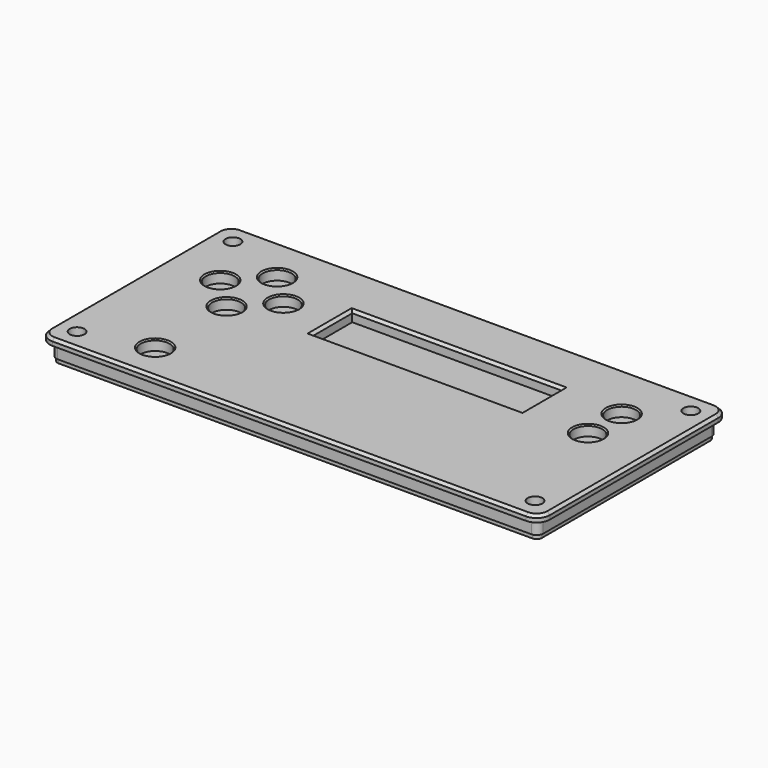
from build123d import *

# Parameters (mm, degrees)
F0_W      = 190
F0_H      = 90
F0_R      = 1.75
F0_R_2    = 5.5
F0_W_2    = 79.652223
F0_H_2    = 18.950621
F1_DEPTH  = 8
F2_R      = 5
F4_DEPTH  = 4
F5_SIZE   = 0.5
F6_SIZE   = 1
F7_R      = 2
F8_R      = 2.8
F9_DEPTH  = 3
F11_DEPTH = 5.5
F12_R     = 1.75
F13_DEPTH = 1.6


with BuildPart() as f1:
    # F0 (on Top) → F1 (new body)
    with BuildSketch(Plane.XY):
        Rectangle(F0_W, F0_H)
        with Locations((-87, -37)):
            Circle(F0_R, mode=Mode.SUBTRACT)
        with Locations((-62.5, -30.559658)):
            Circle(F0_R_2, mode=Mode.SUBTRACT)
        with Locations((87, -37)):
            Circle(F0_R, mode=Mode.SUBTRACT)
        with Locations((-62.5, 3.348534)):
            Circle(F0_R_2, mode=Mode.SUBTRACT)
        with Locations((-74.5, 15.348534)):
            Circle(F0_R_2, mode=Mode.SUBTRACT)
        with Locations((-50.5, 15.348534)):
            Circle(F0_R_2, mode=Mode.SUBTRACT)
        with Locations((-62.5, 27.348534)):
            Circle(F0_R_2, mode=Mode.SUBTRACT)
        with Locations((-87, 37)):
            Circle(F0_R, mode=Mode.SUBTRACT)
        with Locations((8.005532, 15.213479)):
            Rectangle(F0_W_2, F0_H_2, mode=Mode.SUBTRACT)
        with Locations((72.103191, 6.74016)):
            Circle(F0_R_2, mode=Mode.SUBTRACT)
        with Locations((72.144568, 22.672617)):
            Circle(F0_R_2, mode=Mode.SUBTRACT)
        with Locations((87, 37)):
            Circle(F0_R, mode=Mode.SUBTRACT)
    extrude(amount=F1_DEPTH)

    # F2
    f2_edges = [f1.edges().sort_by_distance(p)[0] for p in [
        (-95, 45, 4),
        (-95, -45, 4),
        (95, -45, 4),
        (95, 45, 4),
    ]]
    fillet(f2_edges, radius=F2_R)

    # F3 (on face) → F4 (cut)
    with BuildSketch(Plane(origin=(0, 0, 0), x_dir=(1, 0, 0), z_dir=(0, 0, -1))):
        with BuildLine():
            ThreePointArc((82.417424, -39), (83.464466, -33.464466), (89, -32.417424))
            Line((89, -32.417424), (89, 32.417424))
            ThreePointArc((89, 32.417424), (83.464466, 33.464466), (82.417424, 39))
            Line((82.417424, 39), (-82.417424, 39))
            ThreePointArc((-82.417424, 39), (-83.464466, 33.464466), (-89, 32.417424))
            Line((-89, 32.417424), (-89, -32.417424))
            ThreePointArc((-89, -32.417424), (-83.464466, -33.464466), (-82.417424, -39))
            Line((-82.417424, -39), (82.417424, -39))
        make_face()
    extrude(amount=-F4_DEPTH, mode=Mode.SUBTRACT)

    # F5
    f5_edges = [f1.edges().sort_by_distance(p)[0] for p in [
        (-68, 27.348534, 8),
        (-56, 15.348534, 8),
        (-80, 15.348534, 8),
        (-68, 3.348534, 8),
        (-68, -30.559658, 8),
        (66.644568, 22.672617, 8),
        (66.603191, 6.74016, 8),
    ]]
    chamfer(f5_edges, length=F5_SIZE)

    # F6
    f6_edges = [f1.edges().sort_by_distance(p)[0] for p in [
        (8.005532, 24.688789, 8),
        (-31.82058, 15.213478, 8),
        (47.831643, 15.213478, 8),
        (8.005532, 5.738168, 8),
        (0, 45, 8),
    ]]
    chamfer(f6_edges, length=F6_SIZE)

    # F7
    f7_edges = [f1.edges().sort_by_distance(p)[0] for p in [
        (-89, -32.417424, 2),
        (-82.417424, -39, 2),
        (82.417424, -39, 2),
        (89, -32.417424, 2),
        (89, 32.417424, 2),
        (82.417424, 39, 2),
        (-82.417424, 39, 2),
        (-89, 32.417424, 2),
    ]]
    fillet(f7_edges, radius=F7_R)

    # F8 (on face) → F9 (cut)
    with BuildSketch(Plane.XY.offset(8)):
        with Locations((-87, 37)):
            Circle(F8_R)
        with Locations((87, 37)):
            Circle(F8_R)
        with Locations((-87, -37)):
            Circle(F8_R)
        with Locations((87, -37)):
            Circle(F8_R)
    extrude(amount=-F9_DEPTH, mode=Mode.SUBTRACT)

    # F10 (on face) → F11 (cut)
    with BuildSketch(Plane(origin=(0, 0, 0), x_dir=(1, 0, 0), z_dir=(0, 0, -1))):
        with BuildLine():
            Line((-90, -45), (90, -45))
            ThreePointArc((90, -45), (93.535534, -43.535534), (95, -40))
            Line((95, -40), (95, 40))
            ThreePointArc((95, 40), (93.535534, 43.535534), (90, 45))
            Line((90, 45), (-90, 45))
            ThreePointArc((-90, 45), (-93.535534, 43.535534), (-95, 40))
            Line((-95, 40), (-95, -40))
            ThreePointArc((-95, -40), (-93.535534, -43.535534), (-90, -45))
        make_face()
        with BuildLine():
            ThreePointArc((92.5, -40), (91.767767, -41.767767), (90, -42.5))
            Line((90, -42.5), (-90, -42.5))
            ThreePointArc((-90, -42.5), (-91.767767, -41.767767), (-92.5, -40))
            Line((-92.5, -40), (-92.5, 40))
            ThreePointArc((-92.5, 40), (-91.767767, 41.767767), (-90, 42.5))
            Line((-90, 42.5), (90, 42.5))
            ThreePointArc((90, 42.5), (91.767767, 41.767767), (92.5, 40))
            Line((92.5, 40), (92.5, -40))
        make_face(mode=Mode.SUBTRACT)
    extrude(amount=-F11_DEPTH, mode=Mode.SUBTRACT)

    # F12 (on face) → F13 (join)
    with BuildSketch(Plane(origin=(0, 0, 0), x_dir=(1, 0, 0), z_dir=(0, 0, -1))):
        with BuildLine():
            Line((90, 42), (-90, 42))
            ThreePointArc((-90, 42), (-91.414214, 41.414214), (-92, 40))
            Line((-92, 40), (-92, -40))
            ThreePointArc((-92, -40), (-91.414214, -41.414214), (-90, -42))
            Line((-90, -42), (90, -42))
            ThreePointArc((90, -42), (91.414214, -41.414214), (92, -40))
            Line((92, -40), (92, 40))
            ThreePointArc((92, 40), (91.414214, 41.414214), (90, 42))
        make_face()
        with Locations((-87, -37)):
            Circle(F12_R, mode=Mode.SUBTRACT)
        with Locations((87, -37)):
            Circle(F12_R, mode=Mode.SUBTRACT)
        with Locations((-87, 37)):
            Circle(F12_R, mode=Mode.SUBTRACT)
        with Locations((87, 37)):
            Circle(F12_R, mode=Mode.SUBTRACT)
    extrude(amount=F13_DEPTH)


solid = f1.part
